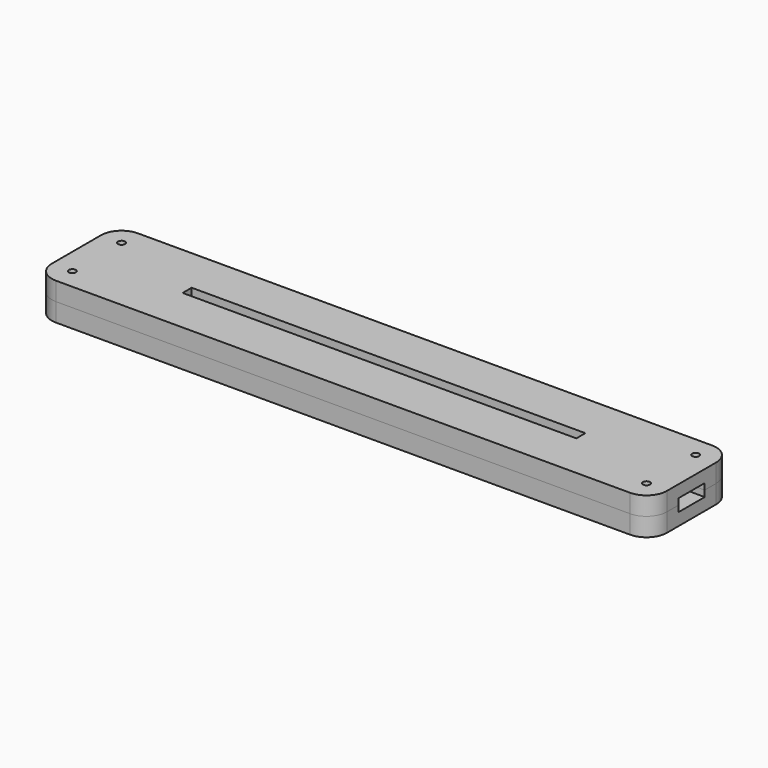
from build123d import *

# Parameters (mm, degrees)
BOX_BOTTOM_HALF_0_W     = 152
BOX_BOTTOM_HALF_0_H     = 27
BOX_BOTTOM_HALF_0_DEPTH = 5.5
SKETCH_W                = 150
SKETCH_H                = 25
PAD_DEPTH               = 3
PAD001_DEPTH            = 3
SKETCH004_W             = 150
SKETCH004_H             = 25
SKETCH004_W_2           = 96
SKETCH004_H_2           = 2.75
PAD002_DEPTH            = 3
SKETCH005_R             = 0.85
POCKET_DEPTH            = 313.671314
POLARPATTERN_COUNT      = 2
POLARPATTERN001_COUNT   = 2
POLARPATTERN002_COUNT   = 2
FILLET_R                = 5


with BuildPart() as box_bottom_half_0_body:
    # box_bottom_half_0 → box_bottom_half_0 (new body)
    with BuildSketch(Plane(origin=(-76, -13.5, -1), x_dir=(1, 0, 0), z_dir=(0, 0, 1))):
        with Locations((76, 13.5)):
            Rectangle(BOX_BOTTOM_HALF_0_W, BOX_BOTTOM_HALF_0_H)
    extrude(amount=BOX_BOTTOM_HALF_0_DEPTH)


with BuildPart() as body:
    # Sketch → Pad (new body)
    with BuildSketch(Plane.XY):
        Rectangle(SKETCH_W, SKETCH_H)
    extrude(amount=PAD_DEPTH)

    # Sketch001 (on Face6 of Pad) → Pad001 (join)
    with BuildSketch(Plane.XY.offset(3)):
        Polygon((-75, 12.5), (75, 12.5), (75, 4), (50, 4), (50, 5), (-50, 5), (-50, 4), (-52.25, 4), (-52.25, 9.2), (-72.25, 9.2), (-72.25, 4.5), (-75, 4.5), align=None)
        Polygon((-75, -12.5), (75, -12.5), (75, -4), (50, -4), (50, -5), (-50, -5), (-50, -4), (-52.25, -4), (-52.25, -9.2), (-72.25, -9.2), (-72.25, -4.5), (-75, -4.5), align=None)
    extrude(amount=PAD001_DEPTH)

    # Sketch004 (on Face12 of Pad001) → Pad002 (join)
    with BuildSketch(Plane.XY.offset(6)):
        Rectangle(SKETCH004_W, SKETCH004_H)
        Rectangle(SKETCH004_W_2, SKETCH004_H_2, mode=Mode.SUBTRACT)
    extrude(amount=PAD002_DEPTH)

    # Sketch005 (on Face34 of Pad002) → Pocket (cut, through all)
    with BuildSketch(Plane.XY.offset(9)):
        with Locations((-70, 7.5)):
            Circle(SKETCH005_R)
    pocket = extrude(amount=-POCKET_DEPTH, mode=Mode.SUBTRACT)

    # PolarPattern: Pocket ×2 about axis
    polarpattern_axis = Axis((0, 0, 9), (0, 0, 1))
    for i in range(1, POLARPATTERN_COUNT):
        add(pocket.rotate(polarpattern_axis, i * 360 / POLARPATTERN_COUNT), mode=Mode.SUBTRACT)

    # PolarPattern001: Pocket ×2 about axis
    polarpattern001_axis = Axis((0, 0, 0), (0, 1, 0))
    for i in range(1, POLARPATTERN001_COUNT):
        add(pocket.rotate(polarpattern001_axis, i * 360 / POLARPATTERN001_COUNT), mode=Mode.SUBTRACT)

    # PolarPattern002: Pocket ×2 about axis
    polarpattern002_axis = Axis((0, 0, 0), (1, 0, 0))
    for i in range(1, POLARPATTERN002_COUNT):
        add(pocket.rotate(polarpattern002_axis, i * 360 / POLARPATTERN002_COUNT), mode=Mode.SUBTRACT)

    # Fillet
    fillet_edges = [body.edges().sort_by_distance(p)[0] for p in [
        (75, -12.5, 7.5),
        (75, 12.5, 7.5),
        (-75, -12.5, 7.5),
        (-75, 12.5, 7.5),
    ]]
    fillet(fillet_edges, radius=FILLET_R)


with BuildPart() as bottom_half_0_body:
    # bottom_half_0 base: copy of Body
    add(body.part)

    # bottom_half_0: intersect box_bottom_half_0 body
    add(box_bottom_half_0_body.part, mode=Mode.INTERSECT)


with BuildPart() as top_half_0_body:
    # top_half_0 base: copy of Body
    add(body.part)

    # top_half_0: cut box_bottom_half_0 body
    add(box_bottom_half_0_body.part, mode=Mode.SUBTRACT)


solid = Compound([bottom_half_0_body.part, top_half_0_body.part])
